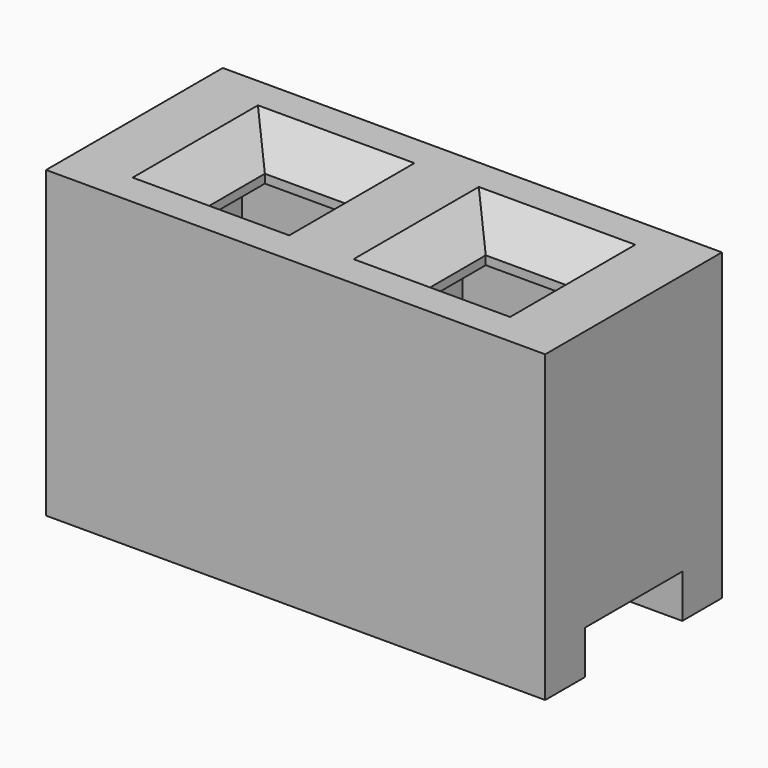
from build123d import *

# Parameters (mm, degrees)
SKETCH007_W      = 1
SKETCH007_H      = 1
EXTRUDE007_DEPTH = 9
SKETCH006_W      = 1.85
SKETCH006_H      = 1.4
EXTRUDE016_DEPTH = 3
SKETCH003_W      = 4
SKETCH003_H      = 1.4
EXTRUDE003_DEPTH = 0.5
SKETCH_W         = 3.2
SKETCH_H         = 2.54
EXTRUDE017_DEPTH = 3.5
CHAMFER005_SIZE  = 0.4
ARRAY010_X_COUNT = 2
ARRAY010_X_PITCH = 2.54


with BuildPart() as extrude007:
    # Sketch007 → Extrude007 (new body)
    with BuildSketch(Plane.XY):
        Rectangle(SKETCH007_W, SKETCH007_H)
    extrude(amount=EXTRUDE007_DEPTH)


with BuildPart() as extrude016:
    # Sketch006 → Extrude016 (new body)
    with BuildSketch(Plane.XY):
        Rectangle(SKETCH006_W, SKETCH006_H)
    extrude(amount=EXTRUDE016_DEPTH)


with BuildPart() as fusion012:
    # Sketch003 → Extrude003 (new body)
    with BuildSketch(Plane.XY):
        Rectangle(SKETCH003_W, SKETCH003_H)
    extrude(amount=EXTRUDE003_DEPTH)

    # Fusion012: union Extrude007, Extrude016
    add(extrude007.part)
    add(extrude016.part)


with BuildPart() as array010:
    # Sketch → Extrude017 (new body)
    with BuildSketch(Plane.XY):
        Rectangle(SKETCH_W, SKETCH_H)
    extrude(amount=EXTRUDE017_DEPTH)

    # Cut005: cut Fusion012
    add(fusion012.part, mode=Mode.SUBTRACT)

    # Chamfer005
    chamfer005_edges = [array010.edges().sort_by_distance(p)[0] for p in [
        (0, 0.5, 3.5),
        (-0.5, 0, 3.5),
        (0, -0.5, 3.5),
        (0.5, 0, 3.5),
    ]]
    chamfer(chamfer005_edges, length=CHAMFER005_SIZE)

    # Array010 X: Array010 ×2


with BuildPart() as array010_1:
    add(array010.part)
    with Locations(*[(i * ARRAY010_X_PITCH, 0, 0) for i in range(1, ARRAY010_X_COUNT)]):
        add(array010.part)


solid = array010_1.part
